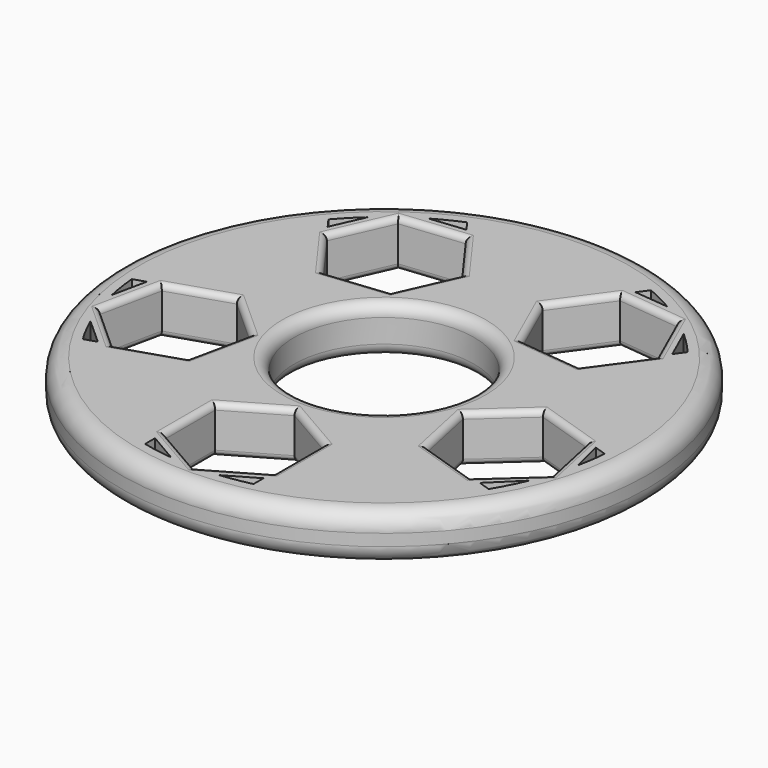
from build123d import *

# Parameters (mm, degrees)
F0_R     = 45
F0_R_2   = 15.35
F1_DEPTH = 8
F2_R     = 1
F3_R     = 3
F4_R     = 2


with BuildPart() as f1:
    # F0 (on Top) → F1 (new body)
    with BuildSketch(Plane.XY):
        Circle(F0_R)
        with BuildLine():
            Line((-9.245925, -39.379996), (-9.245925, -37.246354))
            Line((-9.245925, -37.246354), (-4.113387, -40.241164))
            ThreePointArc((-4.113387, -40.241164), (-6.69352, -39.893208), (-9.245925, -39.379996))
        make_face(mode=Mode.SUBTRACT)
        Polygon((-9.245925, -24.436438), (0, -19.098301), (9.245925, -24.436438), (9.245925, -35.112712), (0, -40.45085), (-9.245925, -35.112712), align=None, mode=Mode.SUBTRACT)
        with BuildLine():
            Line((-37.02738, -16.286326), (-32.56624, -20.303154))
            Line((-32.56624, -20.303154), (-34.595454, -20.962485))
            ThreePointArc((-34.595454, -20.962485), (-35.887661, -18.664058), (-37.02738, -16.286326))
        make_face(mode=Mode.SUBTRACT)
        with BuildLine():
            Line((-40.30975, -3.375691), (-38.280536, -2.716359))
            Line((-38.280536, -2.716359), (-39.528641, -8.588233))
            ThreePointArc((-39.528641, -8.588233), (-40.004185, -5.994698), (-40.30975, -3.375691))
        make_face(mode=Mode.SUBTRACT)
        Polygon((-38.471044, -12.5), (-36.251322, -2.057028), (-26.097581, 1.242123), (-18.163563, -5.901699), (-20.383285, -16.344672), (-30.537026, -19.643822), align=None, mode=Mode.SUBTRACT)
        with BuildLine():
            Line((4.047127, -40.247882), (9.245925, -37.246354))
            Line((9.245925, -37.246354), (9.245925, -39.379996))
            ThreePointArc((9.245925, -39.379996), (6.660677, -39.898705), (4.047127, -40.247882))
        make_face(mode=Mode.SUBTRACT)
        with BuildLine():
            Line((34.595454, -20.962485), (32.56624, -20.303154))
            Line((32.56624, -20.303154), (37.279904, -15.699681))
            ThreePointArc((37.279904, -15.699681), (36.033888, -18.380157), (34.595454, -20.962485))
        make_face(mode=Mode.SUBTRACT)
        Polygon((20.383285, -16.344672), (18.163563, -5.901699), (26.097581, 1.242123), (36.251322, -2.057028), (38.471044, -12.5), (30.537026, -19.643822), align=None, mode=Mode.SUBTRACT)
        with BuildLine():
            Line((39.611142, -8.199309), (38.280536, -2.716359))
            Line((38.280536, -2.716359), (40.30975, -3.375691))
            ThreePointArc((40.30975, -3.375691), (40.033162, -5.798031), (39.611142, -8.199309))
        make_face(mode=Mode.SUBTRACT)
        with BuildLine():
            Line((-26.931306, 30.182379), (-29.372968, 24.698315))
            Line((-29.372968, 24.698315), (-30.627092, 26.424468))
            ThreePointArc((-30.627092, 26.424468), (-28.840471, 28.363683), (-26.931306, 30.182379))
        make_face(mode=Mode.SUBTRACT)
        Polygon((-23.776413, 32.725425), (-13.158624, 33.841399), (-6.883267, 25.204112), (-11.225699, 15.45085), (-21.843488, 14.334875), (-28.118845, 22.972163), align=None, mode=Mode.SUBTRACT)
        with BuildLine():
            ThreePointArc((-20.382917, 34.940062), (-18.06327, 36.193778), (-15.666871, 37.293705))
            Line((-15.666871, 37.293705), (-14.412747, 35.567552))
            Line((-14.412747, 35.567552), (-20.382917, 34.940062))
        make_face(mode=Mode.SUBTRACT)
        Circle(F0_R_2, mode=Mode.SUBTRACT)
        Polygon((21.843488, 14.334875), (11.225699, 15.45085), (6.883267, 25.204112), (13.158624, 33.841399), (23.776413, 32.725425), (28.118845, 22.972163), align=None, mode=Mode.SUBTRACT)
        with BuildLine():
            Line((20.339958, 34.965087), (14.412747, 35.567552))
            Line((14.412747, 35.567552), (15.666871, 37.293705))
            ThreePointArc((15.666871, 37.293705), (18.041024, 36.204871), (20.339958, 34.965087))
        make_face(mode=Mode.SUBTRACT)
        with BuildLine():
            Line((30.627092, 26.424468), (29.372968, 24.698315))
            Line((29.372968, 24.698315), (26.931306, 30.182379))
            ThreePointArc((26.931306, 30.182379), (28.840471, 28.363683), (30.627092, 26.424468))
        make_face(mode=Mode.SUBTRACT)
    extrude(amount=F1_DEPTH)

    # F2
    f2_edges = [f1.edges().sort_by_distance(p)[0] for p in [
        (9.054483, 20.327481, 8),
        (10.020946, 29.522756, 8),
        (16.534594, 14.892862, 8),
        (24.981167, 18.653519, 8),
        (25.947629, 27.848794, 8),
        (18.467518, 33.283412, 8),
        (-18.467518, 33.283412, 8),
        (-25.947629, 27.848794, 8),
        (-24.981167, 18.653519, 8),
        (-16.534594, 14.892862, 8),
        (-9.054483, 20.327481, 8),
        (-10.020946, 29.522756, 8),
        (31.174452, -0.407452, 8),
        (22.130572, -2.329788, 8),
        (34.504035, -16.071911, 8),
        (37.361183, -7.278514, 8),
        (19.273424, -11.123186, 8),
        (25.460156, -17.994247, 8),
        (4.622963, -21.767369, 8),
        (-4.622963, -21.767369, 8),
        (-9.245925, -29.774575, 8),
        (9.245925, -29.774575, 8),
        (4.622963, -37.781781, 8),
        (-4.622963, -37.781781, 8),
        (-25.460156, -17.994247, 8),
        (-19.273424, -11.123186, 8),
        (-22.130572, -2.329788, 8),
        (-37.361183, -7.278514, 8),
        (-34.504035, -16.071911, 8),
        (-31.174452, -0.407452, 8),
        (10.020946, 29.522756, 0),
        (18.467518, 33.283412, 0),
        (25.947629, 27.848794, 0),
        (24.981167, 18.653519, 0),
        (16.534594, 14.892862, 0),
        (9.054483, 20.327481, 0),
        (-9.054483, 20.327481, 0),
        (-16.534594, 14.892862, 0),
        (-24.981167, 18.653519, 0),
        (-18.467518, 33.283412, 0),
        (-25.947629, 27.848794, 0),
        (-10.020946, 29.522756, 0),
        (-22.130572, -2.329788, 0),
        (-31.174452, -0.407452, 0),
        (-37.361183, -7.278514, 0),
        (-25.460156, -17.994247, 0),
        (-19.273424, -11.123186, 0),
        (-34.504035, -16.071911, 0),
        (4.622963, -21.767369, 0),
        (-4.622963, -21.767369, 0),
        (-9.245925, -29.774575, 0),
        (-4.622963, -37.781781, 0),
        (4.622963, -37.781781, 0),
        (9.245925, -29.774575, 0),
        (25.460156, -17.994247, 0),
        (34.504035, -16.071911, 0),
        (37.361183, -7.278514, 0),
        (19.273424, -11.123186, 0),
        (22.130572, -2.329788, 0),
        (31.174452, -0.407452, 0),
    ]]
    fillet(f2_edges, radius=F2_R)

    # F3
    f3_edges = [f1.edges().sort_by_distance(p)[0] for p in [
        (-45, 0, 8),
        (-45, 0, 0),
    ]]
    fillet(f3_edges, radius=F3_R)

    # F4
    f4_edges = [f1.edges().sort_by_distance(p)[0] for p in [
        (-15.35, 0, 0),
        (-15.35, 0, 8),
    ]]
    fillet(f4_edges, radius=F4_R)


solid = f1.part
